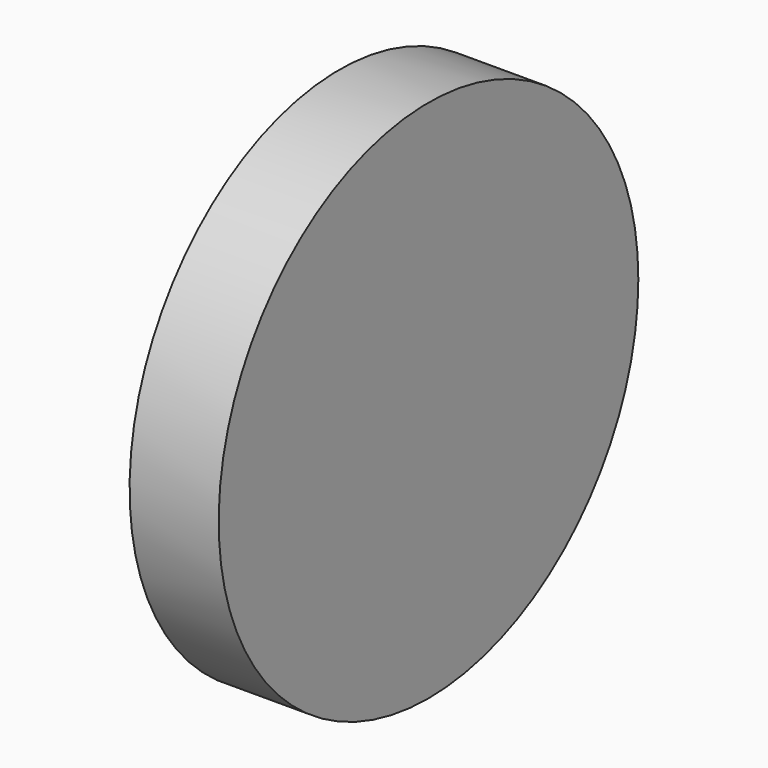
from build123d import *

# Parameters (mm, degrees)
F2_DEPTH = 25.4


with BuildPart() as f2:
    # F1 (on face) → F2 (new body)
    with BuildSketch(Plane.YZ):
        with BuildLine():
            ThreePointArc((0, -74.756905), (52.861114, -52.861114), (74.756905, 0))
            ThreePointArc((74.756905, 0), (-52.861114, 52.861114), (0, -74.756905))
        make_face()
    extrude(amount=F2_DEPTH)


solid = f2.part
